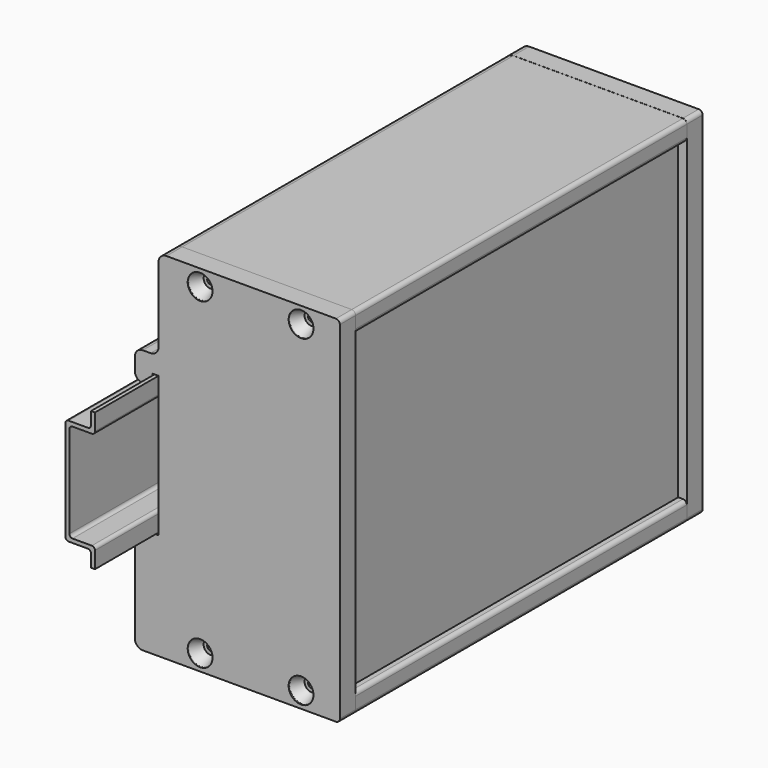
from build123d import *

# Parameters (mm, degrees)
EXTRUDE001_DEPTH           = 3
SKETCH_R                   = 0.85
EXTRUDE_DEPTH              = 105
SKETCH011_W                = 2.2
SKETCH011_H                = 85.6
EXTRUDE003_DEPTH           = 2.8
EXTRUDE002_DEPTH           = 5
CUT007_PLACEMENT_ANGLE     = 180
REVOLVE008_PLACEMENT_ANGLE = 180
REVOLVE009_PLACEMENT_ANGLE = 180
REVOLVE010_PLACEMENT_ANGLE = 180
REVOLVE011_PLACEMENT_ANGLE = 180
SKETCH014_W                = 2.2
SKETCH014_H                = 85.6
EXTRUDE004_DEPTH           = 2.8
EXTRUDE005_DEPTH           = 5
CUT011_PLACEMENT_ANGLE     = 180
SKETCH018_W                = 110
SKETCH018_H                = 85
EXTRUDE006_DEPTH           = 1.6
SKETCH019_W                = 110
SKETCH019_H                = 85
EXTRUDE007_DEPTH           = 1.6
SKETCH020_W                = 110
SKETCH020_H                = 85
EXTRUDE008_DEPTH           = 1.6
EXTRUDE011_DEPTH           = 16.4
EXTRUDE009_DEPTH           = 20
EXTRUDE010_DEPTH           = 2.4
FUSION_ROLL_ANGLE          = 90
FUSION_PLACEMENT_ANGLE     = 90
EXTRUDE012_DEPTH           = 150


with BuildPart() as extrude001:
    # Sketch001 → Extrude001 (new body)
    with BuildSketch(Plane.YZ):
        Polygon((0, 0), (0, 7.78), (1.626354, 9.406337), (1.8e-05, 11.032691), (1.8e-05, 16.552691), (1.626354, 18.179046), (0, 19.805382), (0, 27.285382), (-17, 27.285382), (-17, 19.805382), (-18.626346, 18.179037), (-17, 16.552691), (-17, 11.032691), (-18.626346, 9.406346), (-17, 7.78), (-17, 0), align=None)
    extrude(amount=EXTRUDE001_DEPTH)


with BuildPart() as extrude001_1:
    # Extrude001 placement: moved
    add(extrude001.part.moved(Location((0, -44, 0))))


with BuildPart() as cut:
    # Sketch → Extrude (new body)
    with BuildSketch(Plane.XZ):
        with BuildLine():
            Line((0, 0), (49, 0))
            ThreePointArc((49, 0), (49.707107, 0.292893), (50, 1))
            Line((50, 4), (50, 1))
            ThreePointArc((50, 4), (49.707107, 4.707107), (49, 5))
            Line((49, 5), (47.8, 5))
            Line((47.8, 5), (47.8, 2.2))
            Line((47.8, 2.2), (45.6, 2.2))
            Line((45.6, 2.2), (45.6, 5))
            Line((45.6, 5), (43.04, 5))
            ThreePointArc((43.04, 5), (40.146749, 7.13), (37.253498, 5))
            Line((37.253498, 5), (34.693498, 5))
            Line((34.693498, 5), (34.693498, 2.2))
            Line((34.693498, 2.2), (32.493498, 2.2))
            Line((32.493498, 2.2), (32.493498, 5))
            Line((32.493498, 5), (21.593498, 5))
            Line((21.593498, 5), (21.593498, 2.2))
            Line((21.593498, 2.2), (19.393498, 2.2))
            Line((19.393498, 2.2), (19.393498, 5))
            Line((19.393498, 5), (17.433498, 5))
            ThreePointArc((17.433498, 5), (14.540248, 7.13), (11.646997, 5))
            Line((11.646997, 5), (9.986997, 5))
            ThreePointArc((8.986997, 6), (9.27989, 5.292893), (9.986997, 5))
            Line((8.986997, 6), (8.986997, 84))
            ThreePointArc((9.986997, 85), (9.27989, 84.707107), (8.986997, 84))
            Line((9.986997, 85), (11.646997, 85))
            ThreePointArc((11.646997, 85), (14.540248, 82.87), (17.433498, 85))
            Line((17.433498, 85), (19.393498, 85))
            Line((19.393498, 85), (19.393498, 87.8))
            Line((19.393498, 87.8), (21.593498, 87.8))
            Line((21.593498, 87.8), (21.593498, 85))
            Line((21.593498, 85), (32.493498, 85))
            Line((32.493498, 85), (32.493498, 87.8))
            Line((32.493498, 87.8), (34.693498, 87.8))
            Line((34.693498, 87.8), (34.693498, 85))
            Line((34.693498, 85), (37.253498, 85))
            ThreePointArc((37.253498, 85), (40.146749, 82.87), (43.04, 85))
            Line((43.04, 85), (45.6, 85))
            Line((45.6, 85), (45.6, 87.8))
            Line((45.6, 87.8), (47.8, 87.8))
            Line((47.8, 87.8), (47.8, 85))
            Line((47.8, 85), (49, 85))
            ThreePointArc((49, 85), (49.707107, 85.292893), (50, 86))
            Line((50, 86), (50, 89))
            ThreePointArc((50, 89), (49.707107, 89.707107), (49, 90))
            Line((49, 90), (6, 90))
            ThreePointArc((6, 90), (4.585786, 89.414214), (4, 88))
            Line((4, 88), (4, 69))
            ThreePointArc((2, 67), (3.414214, 67.585786), (4, 69))
            Line((2, 67), (0, 67))
            ThreePointArc((0, 67), (-1.414214, 66.414214), (-2, 65))
            Line((-2, 65), (-2, 61.7))
            ThreePointArc((-2, 61.7), (-1.414214, 60.285786), (0, 59.7))
            Line((0, 59.7), (0.5, 59.7))
            ThreePointArc((0.5, 59.7), (1.914214, 60.285786), (2.5, 61.7))
            Line((2.5, 61.7), (2.5, 62.6))
            Line((2.5, 62.6), (4, 62.6))
            Line((4, 62.6), (4, 27))
            Line((4, 27), (0, 27))
            ThreePointArc((0, 27), (-1.414214, 26.414214), (-2, 25))
            Line((-2, 25), (-2, 2))
            ThreePointArc((-2, 2), (-1.414214, 0.585786), (0, 0))
        make_face()
        with Locations((40.146749, 4.1)):
            Circle(SKETCH_R, mode=Mode.SUBTRACT)
        with Locations((14.540248, 4.1)):
            Circle(SKETCH_R, mode=Mode.SUBTRACT)
        with Locations((14.540248, 85.9)):
            Circle(SKETCH_R, mode=Mode.SUBTRACT)
        with Locations((40.146749, 85.9)):
            Circle(SKETCH_R, mode=Mode.SUBTRACT)
    extrude(amount=EXTRUDE_DEPTH)

    # Cut: cut Extrude001
    add(extrude001_1.part, mode=Mode.SUBTRACT)


with BuildPart() as revolve005:
    # Sketch007 → Revolve005 (revolve)
    with BuildSketch(Plane.XY):
        Polygon((0, -5.000423), (0, 0), (-3.14912, 0), (-3.14912, -0.3), (-1.75, -3.300423), (-0.85, -3.300423), (-0.85, -5.000423), align=None)
    revolve(axis=Axis((0, 0, 0), (0, 1, 0)))


with BuildPart() as revolve005_1:
    # Revolve005 placement: moved
    add(revolve005.part.moved(Location((34.45, 0, 4.1))))


with BuildPart() as revolve004:
    # Sketch008 → Revolve004 (revolve)
    with BuildSketch(Plane.XY):
        Polygon((0, -5.000423), (0, 0), (-3.14912, 0), (-3.14912, -0.3), (-1.75, -3.300423), (-0.85, -3.300423), (-0.85, -5.000423), align=None)
    revolve(axis=Axis((0, 0, 0), (0, 1, 0)))


with BuildPart() as revolve004_1:
    # Revolve004 placement: moved
    add(revolve004.part.moved(Location((8.85, 0, 85.9))))


with BuildPart() as revolve007:
    # Sketch009 → Revolve007 (revolve)
    with BuildSketch(Plane.XY):
        Polygon((0, -5.000423), (0, 0), (-3.14912, 0), (-3.14912, -0.3), (-1.75, -3.300423), (-0.85, -3.300423), (-0.85, -5.000423), align=None)
    revolve(axis=Axis((0, 0, 0), (0, 1, 0)))


with BuildPart() as revolve007_1:
    # Revolve007 placement: moved
    add(revolve007.part.moved(Location((34.45, 0, 85.9))))


with BuildPart() as revolve006:
    # Sketch010 → Revolve006 (revolve)
    with BuildSketch(Plane.XY):
        Polygon((0, -5.000423), (0, 0), (-3.14912, 0), (-3.14912, -0.3), (-1.75, -3.300423), (-0.85, -3.300423), (-0.85, -5.000423), align=None)
    revolve(axis=Axis((0, 0, 0), (0, 1, 0)))


with BuildPart() as revolve006_1:
    # Revolve006 placement: moved
    add(revolve006.part.moved(Location((8.85, 0, 4.1))))


with BuildPart() as extrude003:
    # Sketch011 → Extrude003 (new body)
    with BuildSketch(Plane.XZ):
        with Locations((2.3, 45)):
            Rectangle(SKETCH011_W, SKETCH011_H)
        with Locations((15.4, 45)):
            Rectangle(SKETCH011_W, SKETCH011_H)
        with Locations((28.5, 45)):
            Rectangle(SKETCH011_W, SKETCH011_H)
    extrude(amount=EXTRUDE003_DEPTH)


with BuildPart() as extrude003_1:
    # Extrude003 placement: moved
    add(extrude003.part.moved(Location((0, -2.2, 0))))


with BuildPart() as cut007:
    # Sketch006 → Extrude002 (new body)
    with BuildSketch(Plane.XZ):
        with BuildLine():
            Line((0, 0), (49, 0))
            ThreePointArc((49, 0), (50.414214, 0.585786), (51, 2))
            Line((51, 2), (51, 25))
            ThreePointArc((51, 25), (50.414214, 26.414214), (49, 27))
            Line((49, 27), (45, 27))
            Line((45, 27), (45, 62.6))
            Line((45, 62.6), (46.5, 62.6))
            Line((46.5, 62.6), (46.5, 61.7))
            ThreePointArc((46.5, 61.7), (47.085786, 60.285786), (48.5, 59.7))
            Line((48.5, 59.7), (49, 59.7))
            ThreePointArc((49, 59.7), (50.414214, 60.285786), (51, 61.7))
            Line((51, 61.7), (51, 65))
            ThreePointArc((51, 65), (50.414214, 66.414214), (49, 67))
            Line((49, 67), (47, 67))
            ThreePointArc((45, 69), (45.585786, 67.585786), (47, 67))
            Line((45, 69), (45, 88))
            ThreePointArc((45, 88), (44.414214, 89.414214), (43, 90))
            Line((43, 90), (0, 90))
            ThreePointArc((0, 90), (-0.707107, 89.707107), (-1, 89))
            Line((-1, 1), (-1, 89))
            ThreePointArc((-1, 1), (-0.707107, 0.292893), (0, 0))
        make_face()
    extrude(amount=EXTRUDE002_DEPTH)

    # Cut005: cut Extrude003
    add(extrude003_1.part, mode=Mode.SUBTRACT)

    # Cut009: cut Revolve006
    add(revolve006_1.part, mode=Mode.SUBTRACT)

    # Cut006: cut Revolve007
    add(revolve007_1.part, mode=Mode.SUBTRACT)

    # Cut008: cut Revolve004
    add(revolve004_1.part, mode=Mode.SUBTRACT)

    # Cut007: cut Revolve005
    add(revolve005_1.part, mode=Mode.SUBTRACT)


with BuildPart() as cut007_1:
    # Cut007 placement: moved
    add(cut007.part.moved(Location((49, -110, 0))).rotate(Axis((49, -110, 0), (0, 0, 1)), CUT007_PLACEMENT_ANGLE))


with BuildPart() as revolve008:
    # Sketch016 → Revolve008 (revolve)
    with BuildSketch(Plane.XY):
        Polygon((0, -5.000423), (0, 0), (-3.14912, 0), (-3.14912, -0.3), (-1.75, -3.300423), (-0.85, -3.300423), (-0.85, -5.000423), align=None)
    revolve(axis=Axis((0, 0, 0), (0, 1, 0)))


with BuildPart() as revolve008_1:
    # Revolve008 placement: moved
    add(revolve008.part.moved(Location((34.45, -5, 4.1))).rotate(Axis((34.45, -5, 4.1), (0, 0, 1)), REVOLVE008_PLACEMENT_ANGLE))


with BuildPart() as revolve009:
    # Sketch017 → Revolve009 (revolve)
    with BuildSketch(Plane.XY):
        Polygon((0, -5.000423), (0, 0), (-3.14912, 0), (-3.14912, -0.3), (-1.75, -3.300423), (-0.85, -3.300423), (-0.85, -5.000423), align=None)
    revolve(axis=Axis((0, 0, 0), (0, 1, 0)))


with BuildPart() as revolve009_1:
    # Revolve009 placement: moved
    add(revolve009.part.moved(Location((8.85, -5, 85.9))).rotate(Axis((8.85, -5, 85.9), (0, 0, 1)), REVOLVE009_PLACEMENT_ANGLE))


with BuildPart() as revolve010:
    # Sketch015 → Revolve010 (revolve)
    with BuildSketch(Plane.XY):
        Polygon((0, -5.000423), (0, 0), (-3.14912, 0), (-3.14912, -0.3), (-1.75, -3.300423), (-0.85, -3.300423), (-0.85, -5.000423), align=None)
    revolve(axis=Axis((0, 0, 0), (0, 1, 0)))


with BuildPart() as revolve010_1:
    # Revolve010 placement: moved
    add(revolve010.part.moved(Location((34.45, -5, 85.9))).rotate(Axis((34.45, -5, 85.9), (0, 0, 1)), REVOLVE010_PLACEMENT_ANGLE))


with BuildPart() as revolve011:
    # Sketch012 → Revolve011 (revolve)
    with BuildSketch(Plane.XY):
        Polygon((0, -5.000423), (0, 0), (-3.14912, 0), (-3.14912, -0.3), (-1.75, -3.300423), (-0.85, -3.300423), (-0.85, -5.000423), align=None)
    revolve(axis=Axis((0, 0, 0), (0, 1, 0)))


with BuildPart() as revolve011_1:
    # Revolve011 placement: moved
    add(revolve011.part.moved(Location((8.85, -5, 4.1))).rotate(Axis((8.85, -5, 4.1), (0, 0, 1)), REVOLVE011_PLACEMENT_ANGLE))


with BuildPart() as extrude004:
    # Sketch014 → Extrude004 (new body)
    with BuildSketch(Plane.XZ):
        with Locations((2.3, 45)):
            Rectangle(SKETCH014_W, SKETCH014_H)
        with Locations((15.4, 45)):
            Rectangle(SKETCH014_W, SKETCH014_H)
        with Locations((28.5, 45)):
            Rectangle(SKETCH014_W, SKETCH014_H)
    extrude(amount=EXTRUDE004_DEPTH)


with BuildPart() as cut011:
    # Sketch013 → Extrude005 (new body)
    with BuildSketch(Plane.XZ):
        with BuildLine():
            Line((0, 0), (49, 0))
            ThreePointArc((49, 0), (50.414214, 0.585786), (51, 2))
            Line((51, 2), (51, 25))
            ThreePointArc((51, 25), (50.414214, 26.414214), (49, 27))
            Line((49, 27), (45, 27))
            Line((45, 27), (45, 62.6))
            Line((45, 62.6), (46.5, 62.6))
            Line((46.5, 62.6), (46.5, 61.7))
            ThreePointArc((46.5, 61.7), (47.085786, 60.285786), (48.5, 59.7))
            Line((48.5, 59.7), (49, 59.7))
            ThreePointArc((49, 59.7), (50.414214, 60.285786), (51, 61.7))
            Line((51, 61.7), (51, 65))
            ThreePointArc((51, 65), (50.414214, 66.414214), (49, 67))
            Line((49, 67), (47, 67))
            ThreePointArc((45, 69), (45.585786, 67.585786), (47, 67))
            Line((45, 69), (45, 88))
            ThreePointArc((45, 88), (44.414214, 89.414214), (43, 90))
            Line((43, 90), (0, 90))
            ThreePointArc((0, 90), (-0.707107, 89.707107), (-1, 89))
            Line((-1, 1), (-1, 89))
            ThreePointArc((-1, 1), (-0.707107, 0.292893), (0, 0))
        make_face()
    extrude(amount=EXTRUDE005_DEPTH)

    # Cut010: cut Extrude004
    add(extrude004.part, mode=Mode.SUBTRACT)

    # Cut013: cut Revolve011
    add(revolve011_1.part, mode=Mode.SUBTRACT)

    # Cut014: cut Revolve010
    add(revolve010_1.part, mode=Mode.SUBTRACT)

    # Cut012: cut Revolve009
    add(revolve009_1.part, mode=Mode.SUBTRACT)

    # Cut011: cut Revolve008
    add(revolve008_1.part, mode=Mode.SUBTRACT)


with BuildPart() as cut011_1:
    # Cut011 placement: moved
    add(cut011.part.moved(Location((48.9922, 0.00472, 0.017954))).rotate(Axis((48.9922, 0.00472, 0.017954), (0, 0, 1)), CUT011_PLACEMENT_ANGLE))


with BuildPart() as extrude006:
    # Sketch018 → Extrude006 (new body)
    with BuildSketch(Plane.YZ):
        with Locations((72.502282, 5.501856)):
            Rectangle(SKETCH018_W, SKETCH018_H)
    extrude(amount=EXTRUDE006_DEPTH)


with BuildPart() as extrude006_1:
    # Extrude006 placement: moved
    add(extrude006.part.moved(Location((19.69, -125.33, 39.5))))


with BuildPart() as extrude007:
    # Sketch019 → Extrude007 (new body)
    with BuildSketch(Plane.YZ):
        with Locations((72.833852, 5.679217)):
            Rectangle(SKETCH019_W, SKETCH019_H)
    extrude(amount=EXTRUDE007_DEPTH)


with BuildPart() as extrude007_1:
    # Extrude007 placement: moved
    add(extrude007.part.moved(Location((32.79, -125.33, 39.32))))


with BuildPart() as extrude008:
    # Sketch020 → Extrude008 (new body)
    with BuildSketch(Plane.YZ):
        with Locations((72.502282, 5.501856)):
            Rectangle(SKETCH020_W, SKETCH020_H)
    extrude(amount=EXTRUDE008_DEPTH)


with BuildPart() as extrude008_1:
    # Extrude008 placement: moved
    add(extrude008.part.moved(Location((45.9, -125.33, 39.5))))


with BuildPart() as extrude011:
    # Sketch002 → Extrude011 (new body)
    with BuildSketch(Plane.YZ):
        with BuildLine():
            Line((0, 0), (3, 0))
            Line((3, 0), (3, 3.9))
            ThreePointArc((3, 3.9), (1.5, 5.322269), (0, 3.9))
            Line((0, 0), (0, 3.9))
        make_face()
    extrude(amount=EXTRUDE011_DEPTH)


with BuildPart() as extrude009:
    # Sketch021 → Extrude009 (new body)
    with BuildSketch(Plane.YZ):
        Polygon((0, 1.9), (-1.002198, 2.4), (0, 2.4), (2.268745, 2.4), (2.268745, 1.9), align=None)
    extrude(amount=EXTRUDE009_DEPTH)


with BuildPart() as extrude009_1:
    # Extrude009 placement: moved
    add(extrude009.part.moved(Location((0, 37, 0))))


with BuildPart() as fusion:
    # Sketch022 → Extrude010 (new body)
    with BuildSketch(Plane.XY):
        with BuildLine():
            Line((16.4, 23), (17.899066, 24.499066))
            Line((17.899066, 24.499066), (16.4, 25.998133))
            Line((16.4, 25.998133), (15, 25.998133))
            Line((15, 25.998133), (14.365688, 13.894743))
            ThreePointArc((13.365688, 13.894743), (13.865688, 13.394743), (14.365688, 13.894743))
            Line((13.365688, 13.894743), (12.9, 27.997056))
            ThreePointArc((13.9, 28.997056), (13.192893, 28.704163), (12.9, 27.997056))
            Line((16.4, 28.997056), (13.9, 28.997056))
            Line((16.4, 28.997056), (16.4, 36.997056))
            Line((16.4, 36.997056), (0, 36.997056))
            Line((0, 36.997056), (0, 28.997056))
            Line((2.5, 28.997056), (0, 28.997056))
            ThreePointArc((3.5, 27.997056), (3.207107, 28.704163), (2.5, 28.997056))
            Line((3.034312, 13.894743), (3.5, 27.997056))
            ThreePointArc((2.034312, 13.894743), (2.534312, 13.394743), (3.034312, 13.894743))
            Line((1.4, 25.998133), (2.034312, 13.894743))
            Line((1.4, 25.998133), (0, 25.998133))
            Line((-1.499066, 24.499066), (0, 25.998133))
            Line((0, 23), (-1.499066, 24.499066))
            Line((0, 0), (0, 23))
            Line((0, 0), (16.4, 0))
            Line((16.4, 23), (16.4, 0))
        make_face()
    extrude(amount=EXTRUDE010_DEPTH)

    # Cut015: cut Extrude009
    add(extrude009_1.part, mode=Mode.SUBTRACT)

    # Fusion: union Extrude011
    add(extrude011.part)


with BuildPart() as fusion_1:
    # Fusion roll: moved
    add(fusion.part.rotate(Axis((0, 0, 0), (1, 0, 0)), FUSION_ROLL_ANGLE))


with BuildPart() as fusion_2:
    # Fusion placement: moved
    add(fusion_1.part.moved(Location((0.3, -60.7, -6.4))).rotate(Axis((0.3, -60.7, -6.4), (0, 0, 1)), FUSION_PLACEMENT_ANGLE))


with BuildPart() as din:
    # Sketch023 → Extrude012 (new body)
    with BuildSketch(Plane.XZ):
        with BuildLine():
            Line((-1, 35), (0, 35))
            Line((0, 35), (0, 30.8))
            ThreePointArc((-0.8, 30), (-0.234315, 30.234315), (0, 30.8))
            Line((-0.8, 30), (-5.7, 30))
            ThreePointArc((-5.7, 30), (-6.265685, 29.765685), (-6.5, 29.2))
            Line((-6.5, 29.2), (-6.5, 5.8))
            ThreePointArc((-6.5, 5.8), (-6.265685, 5.234315), (-5.7, 5))
            Line((-5.7, 5), (-0.8, 5))
            ThreePointArc((0, 4.2), (-0.234315, 4.765685), (-0.8, 5))
            Line((0, 0), (0, 4.2))
            Line((-1, 0), (0, 0))
            Line((-1, 3.2), (-1, 0))
            ThreePointArc((-1, 3.2), (-1.234315, 3.765685), (-1.8, 4))
            Line((-6.7, 4), (-1.8, 4))
            ThreePointArc((-7.5, 4.8), (-7.265685, 4.234315), (-6.7, 4))
            Line((-7.5, 30.2), (-7.5, 4.8))
            ThreePointArc((-6.7, 31), (-7.265685, 30.765685), (-7.5, 30.2))
            Line((-1.8, 31), (-6.7, 31))
            ThreePointArc((-1.8, 31), (-1.234315, 31.234315), (-1, 31.8))
            Line((-1, 35), (-1, 31.8))
        make_face()
    extrude(amount=EXTRUDE012_DEPTH)


with BuildPart() as din_1:
    # Extrude012 placement: moved
    add(din.part.moved(Location((4, 19.85, 27.6))))


solid = Compound([cut.part, cut007_1.part, cut011_1.part, extrude006_1.part, extrude007_1.part, extrude008_1.part, fusion_2.part, din_1.part])
